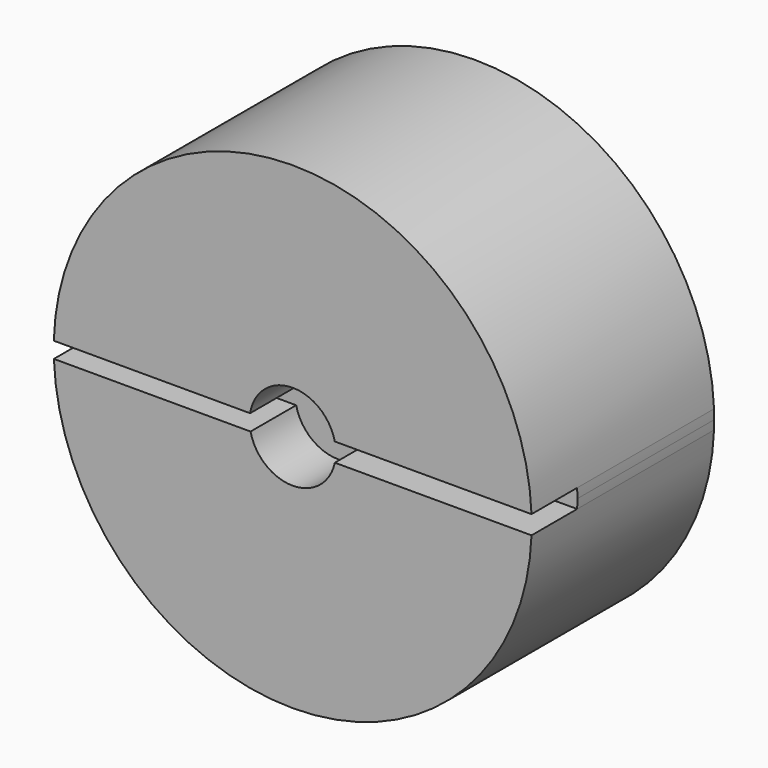
from build123d import *

# Parameters (mm, degrees)
F1_DEPTH = 50.8
F2_DEPTH = 38.1


with BuildPart() as f1:
    # F0 (on Front) → F1 (new body)
    with BuildSketch(Plane.XZ):
        with BuildLine():
            Line((9.371838, 2.110901), (53.182594, 2.110901))
            ThreePointArc((53.182594, 2.110901), (-0.297322, 53.22364), (-53.202858, 1.516602))
            Line((-53.202858, 1.516602), (-9.486156, 1.516602))
            ThreePointArc((-9.486156, 1.516602), (-0.302597, 9.601858), (9.371838, 2.110901))
        make_face()
        with BuildLine():
            ThreePointArc((-53.185347, -2.040356), (0, -53.22447), (53.185347, -2.040356))
            Line((53.185347, -2.040356), (9.387448, -2.040356))
            ThreePointArc((9.387448, -2.040356), (0, -9.606625), (-9.387448, -2.040356))
            Line((-9.387448, -2.040356), (-53.185347, -2.040356))
        make_face()
    extrude(amount=F1_DEPTH)


with BuildPart() as f2:
    # F0 (on Front) → F2 (new body)
    with BuildSketch(Plane.XZ):
        with BuildLine():
            ThreePointArc((53.185347, -2.040356), (53.214689, -1.020366), (53.22447, 0))
            ThreePointArc((53.22447, 0), (53.214, 1.055658), (53.182594, 2.110901))
            Line((53.182594, 2.110901), (9.371838, 2.110901))
            ThreePointArc((9.371838, 2.110901), (9.547748, 1.061959), (9.606625, 0))
            ThreePointArc((9.606625, 0), (9.551674, -1.026047), (9.387448, -2.040356))
            Line((9.387448, -2.040356), (53.185347, -2.040356))
        make_face()
        with BuildLine():
            ThreePointArc((9.606625, 0), (9.547748, 1.061959), (9.371838, 2.110901))
            ThreePointArc((9.371838, 2.110901), (-0.302597, 9.601858), (-9.486156, 1.516602))
            ThreePointArc((-9.486156, 1.516602), (-9.602928, -0.266487), (-9.387448, -2.040356))
            ThreePointArc((-9.387448, -2.040356), (0, -9.606625), (9.387448, -2.040356))
            ThreePointArc((9.387448, -2.040356), (9.551674, -1.026047), (9.606625, 0))
        make_face()
        with BuildLine():
            Line((-9.486156, 1.516602), (-53.202858, 1.516602))
            ThreePointArc((-53.202858, 1.516602), (-53.223825, -0.262024), (-53.185347, -2.040356))
            Line((-53.185347, -2.040356), (-9.387448, -2.040356))
            ThreePointArc((-9.387448, -2.040356), (-9.602928, -0.266487), (-9.486156, 1.516602))
        make_face()
    extrude(amount=F2_DEPTH)


solid = Compound([f1.part, f2.part])
